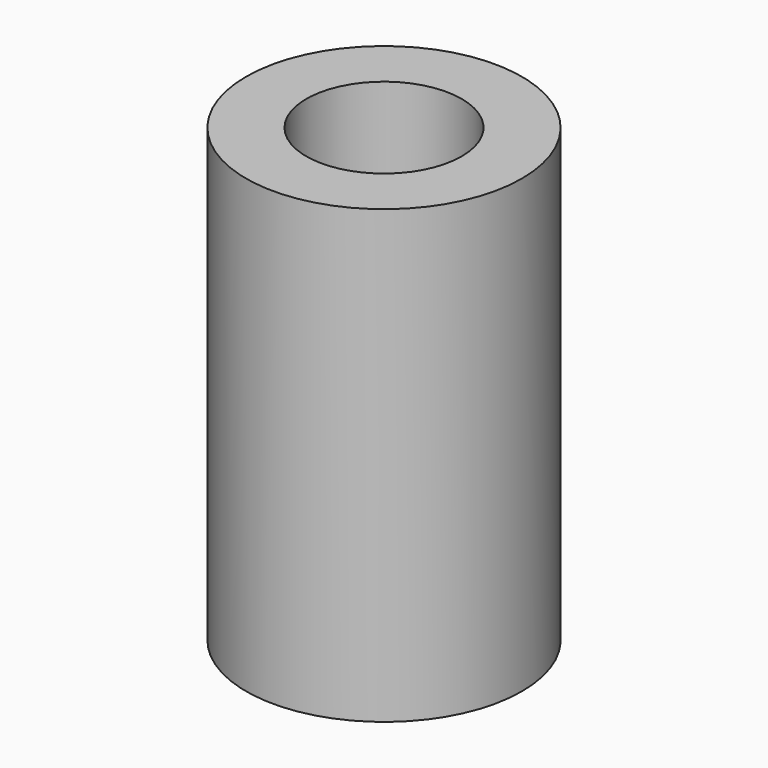
from build123d import *

# Parameters (mm, degrees)
SKETCH_R   = 2.75
SKETCH_R_2 = 1.55
PAD_DEPTH  = 9


with BuildPart() as part:
    # Sketch → Pad (new body)
    with BuildSketch(Plane.XY):
        Circle(SKETCH_R)
        Circle(SKETCH_R_2, mode=Mode.SUBTRACT)
    extrude(amount=PAD_DEPTH)


solid = part.part
